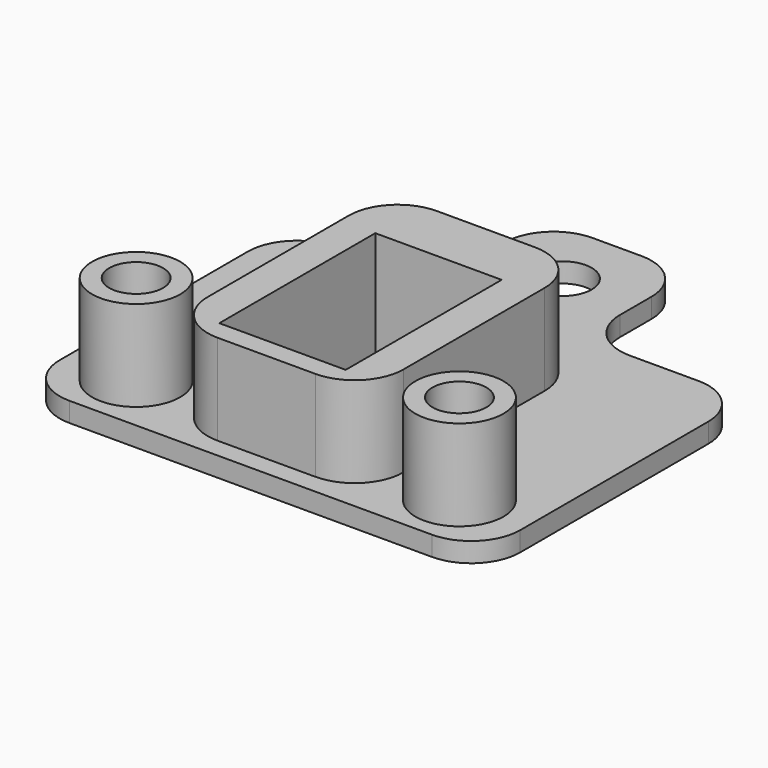
from build123d import *

# Parameters (mm, degrees)
F0_W     = 15
F0_H     = 14
F0_R     = 3
F0_W_2   = 20
F0_H_2   = 2
F1_DEPTH = 2
F0_H_3   = 28
F0_W_3   = 12.9
F0_H_4   = 19.9
F2_DEPTH = 11.25
F3_R     = 5
F4_W     = 2
F4_H     = 1
F5_DEPTH = 2
F6_R     = 4.5
F6_R_2   = 2.75
F7_DEPTH = 9.25
F8_DEPTH = 2.001


with BuildPart() as f1:
    # F0 (on Top) → F1 (new body)
    with BuildSketch(Plane.XY):
        with Locations((-0.1896551724, 11.6551724138)):
            Rectangle(F0_W, F0_H)
        with Locations((-0.1896551724, 11.6551724138)):
            Circle(F0_R, mode=Mode.SUBTRACT)
        Polygon((-7.6896551724, 4.6551724138), (-22.6896551724, 4.6551724138), (-22.6896551724, 0.6551724138), (-9.1896551724, 0.6551724138), (10.8103448276, 0.6551724138), (24.3103448276, 0.6551724138), (24.3103448276, 4.6551724138), (7.3103448276, 4.6551724138), align=None)
        Polygon((-9.1896551724, 0.6551724138), (-22.6896551724, 0.6551724138), (-22.6896551724, -29.3448275862), (-9.1896551724, -29.3448275862), (-9.1896551724, -27.3448275862), align=None)
        Polygon((24.3103448276, 0.6551724138), (10.8103448276, 0.6551724138), (10.8103448276, -27.3448275862), (10.8103448276, -29.3448275862), (24.3103448276, -29.3448275862), align=None)
        with Locations((0.8103448276, -28.3448275862)):
            Rectangle(F0_W_2, F0_H_2)
    extrude(amount=F1_DEPTH)

    # F0 (on Top) → F2 (join)
    with BuildSketch(Plane.XY):
        with Locations((0.8103448276, -13.3448275862)):
            Rectangle(F0_W_2, F0_H_3)
        with Locations((0.8103448276, -15.3448275862)):
            Rectangle(F0_W_3, F0_H_4, mode=Mode.SUBTRACT)
    extrude(amount=F2_DEPTH)

    # F3
    f3_edges = [f1.edges().sort_by_distance(p)[0] for p in [
        (10.810345, 0.655172, 6.625),
        (-9.189655, 0.655172, 6.625),
        (-9.189655, -27.344828, 6.625),
        (10.810345, -27.344828, 6.625),
        (24.310345, -29.344828, 1),
        (-22.689655, -29.344828, 1),
        (24.310345, 4.655172, 1),
        (7.310345, 18.655172, 1),
        (-7.689655, 18.655172, 1),
        (-22.689655, 4.655172, 1),
        (-7.689655, 4.655172, 1),
        (7.310345, 4.655172, 1),
    ]]
    fillet(f3_edges, radius=F3_R)

    # F4 (on face) → F5 (cut)
    with BuildSketch(Plane(origin=(0, 0, 0), x_dir=(1, 0, 0), z_dir=(0, 0, -1))):
        with Locations((0.8603448276, 25.7948275862)):
            Rectangle(F4_W, F4_H)
        with Locations((0.8603448276, 4.8948275862)):
            Rectangle(F4_W, F4_H)
    extrude(amount=-F5_DEPTH, mode=Mode.SUBTRACT)

    # F6 (on face) → F7 (join)
    with BuildSketch(Plane.XY.offset(2)):
        with Locations((-15.6896551724, -23.3448275862)):
            Circle(F6_R)
        with Locations((-15.6896551724, -23.3448275862)):
            Circle(F6_R_2, mode=Mode.SUBTRACT)
        with Locations((17.3103448276, -23.3448275862)):
            Circle(F6_R)
        with Locations((17.3103448276, -23.3448275862)):
            Circle(F6_R_2, mode=Mode.SUBTRACT)
    extrude(amount=F7_DEPTH)

    # F8 (cut, through all): faces of the model
    f8_faces = [f1.faces().sort_by_distance(p)[0] for p in [
        (-15.6896551724, -23.3448275862, 2),
        (17.3103448276, -23.3448275862, 2),
    ]]
    extrude(f8_faces, amount=-F8_DEPTH, mode=Mode.SUBTRACT)


solid = f1.part
